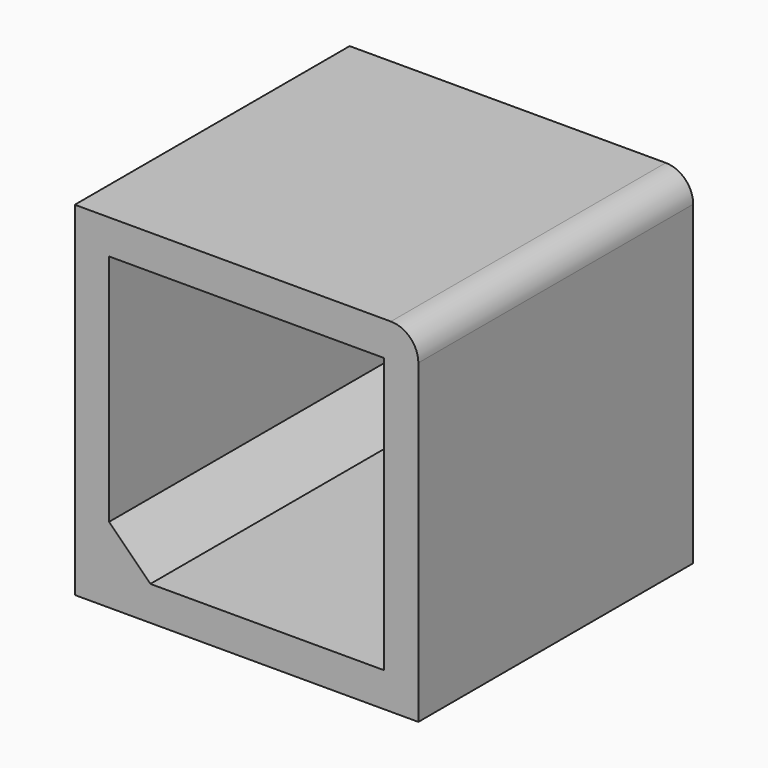
from build123d import *

# Parameters (mm, degrees)
F0_W     = 1270
F0_H     = 1270
F0_W_2   = 1016
F0_H_2   = 1016
F1_DEPTH = 635
F2_R     = 101.6
F3_SIZE  = 152.4


with BuildPart() as f1:
    # F0 (on Front) → F1 (new body, symmetric)
    with BuildSketch(Plane.XZ):
        Rectangle(F0_W, F0_H)
        Rectangle(F0_W_2, F0_H_2, mode=Mode.SUBTRACT)
    extrude(amount=F1_DEPTH, both=True)

    # F2
    f2_edges = [f1.edges().sort_by_distance(p)[0] for p in [
        (635, 0, 635),
    ]]
    fillet(f2_edges, radius=F2_R)

    # F3
    f3_edges = [f1.edges().sort_by_distance(p)[0] for p in [
        (-508, 0, -508),
    ]]
    chamfer(f3_edges, length=F3_SIZE)


solid = f1.part
